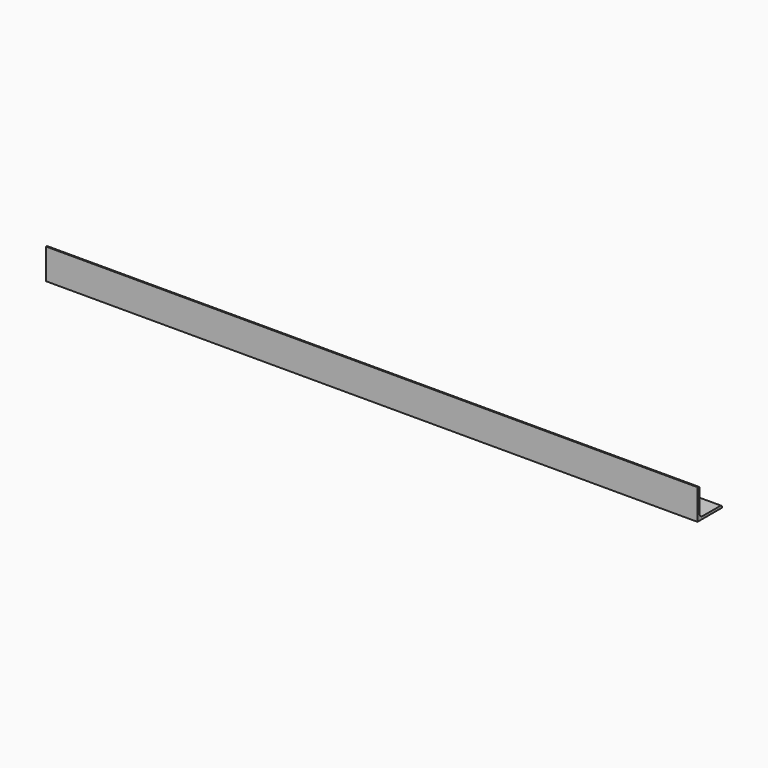
from build123d import *

# Parameters (mm, degrees)
F1_DEPTH = 812.8


with BuildPart() as f1:
    # F0 (on Right) → F1 (new body, symmetric)
    with BuildSketch(Plane.YZ):
        with BuildLine():
            Line((1.5875, 76.2), (0, 76.2))
            Line((0, 76.2), (0, 0))
            Line((0, 0), (76.2, 0))
            Line((76.2, 0), (76.2, 1.5875))
            ThreePointArc((76.2, 1.5875), (74.805096, 4.955096), (71.4375, 6.35))
            Line((71.4375, 6.35), (15.875, 6.35))
            ThreePointArc((15.875, 6.35), (9.139808, 9.139808), (6.35, 15.875))
            Line((6.35, 15.875), (6.35, 71.4375))
            ThreePointArc((6.35, 71.4375), (4.955096, 74.805096), (1.5875, 76.2))
        make_face()
    extrude(amount=F1_DEPTH, both=True)


solid = f1.part
